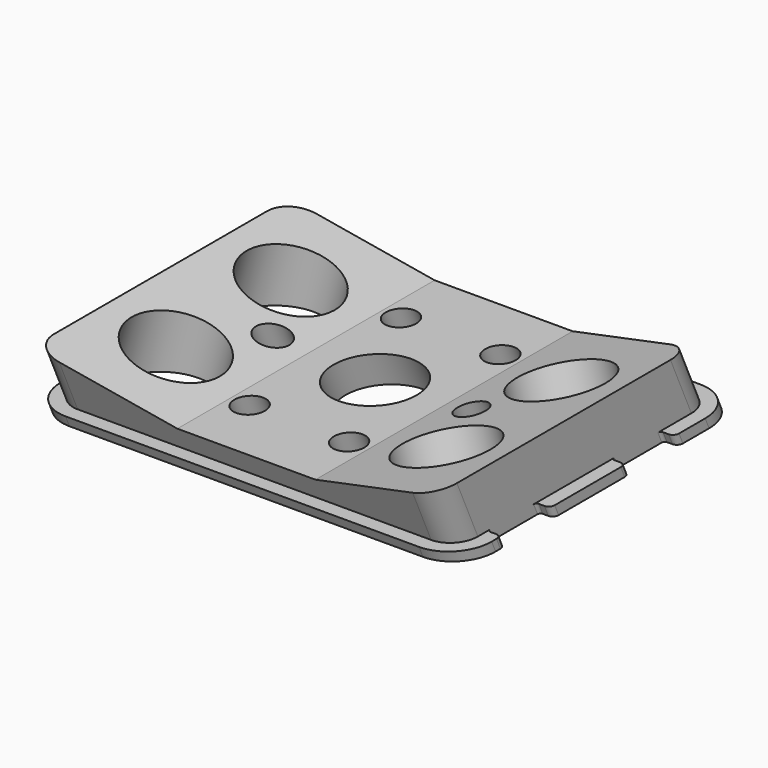
from build123d import *

# Parameters (mm, degrees)
PAD033_DEPTH            = 28.5
POCKET033_DEPTH         = 80
PAD034_DEPTH            = 44
POCKET034_DEPTH         = 80
POCKET035_DEPTH         = 65
POCKET035_DEPTH_BACK    = 100
SKETCH079_R             = 8.25
POCKET036_DEPTH         = 15
SKETCH080_R             = 8.25
POCKET037_DEPTH         = 19
POCKET038_DEPTH         = 14
POCKET039_DEPTH         = 12
SKETCH083_R             = 7.5
SKETCH083_R_2           = 2.75
POCKET040_DEPTH         = 50
SKETCH103_R             = 3.2
POCKET059_DEPTH         = 2
POCKET059_DEPTH_BACK    = 100
POCKET060_DEPTH         = 40
FILLET001_R             = 1
BODY016_PLACEMENT_ANGLE = 204.436


with BuildPart() as part:
    # Sketch074 → Pad033 (new body)
    with BuildSketch(Plane.XY.offset(44.25)):
        with BuildLine():
            Line((25, 4), (89, 4))
            ThreePointArc((89, 4), (93.9497474683, 6.0502525317), (96, 11))
            Line((96, 11), (96, 55))
            ThreePointArc((96, 55), (93.9497474683, 59.9497474683), (89, 62))
            Line((89, 62), (25, 62))
            ThreePointArc((25, 62), (20.0502525317, 59.9497474683), (18, 55))
            Line((18, 55), (18, 11))
            ThreePointArc((18, 11), (20.0502525317, 6.0502525317), (25, 4))
        make_face()
    extrude(amount=-PAD033_DEPTH)

    # Sketch075 (on Face7 of Pad033) → Pocket033 (cut)
    with BuildSketch(Plane(origin=(18, 0, 0), x_dir=(0, -1, 0), z_dir=(-1, 0, 0))):
        Polygon((-62, 15.75), (-4, 42.1136915968), (-4, 15.75), align=None)
        Polygon((-62, 17.8863084032), (-4, 44.25), (-62, 44.25), align=None)
    extrude(amount=-POCKET033_DEPTH, mode=Mode.SUBTRACT)

    # Sketch076 → Pad034 (join)
    with BuildSketch(Plane.XY):
        with BuildLine():
            ThreePointArc((20.5, 11), (21.8180194847, 7.8180194847), (25, 6.5))
            Line((25, 6.5), (89, 6.5))
            ThreePointArc((89, 6.5), (92.1819805153, 7.8180194847), (93.5, 11))
            Line((93.5, 11), (93.5, 55))
            ThreePointArc((93.5, 55), (92.1819805153, 58.1819805153), (89, 59.5))
            Line((25, 59.5), (89, 59.5))
            ThreePointArc((25, 59.5), (21.8180194847, 58.1819805153), (20.5, 55))
            Line((20.5, 55), (20.5, 11))
        make_face()
    extrude(amount=PAD034_DEPTH)

    # Sketch077 (on Face22 of Pad034) → Pocket034 (cut)
    with BuildSketch(Plane.YZ.offset(93.5)):
        Polygon((6.5, 43.1136339829), (59.5, 19.0226744203), (59.5, 44), (6.5, 44), align=None)
    extrude(amount=-POCKET034_DEPTH, mode=Mode.SUBTRACT)

    # Sketch078 (on DatumPlane) → Pocket035 (cut, two sides)
    with BuildSketch(Plane(origin=(96, 11, 38.9318667489), x_dir=(1, 0, 0), z_dir=(0, -0.9103661509, 0.4138036628))) as pocket035_sk:
        Polygon((-75.5, -10.4307806183), (-51.5, -4), (-26.5, -4), (-2.5, -10.4307806183), (-2.5, -38), (-75.5, -38), align=None)
    extrude(amount=-POCKET035_DEPTH, mode=Mode.SUBTRACT)
    extrude(pocket035_sk.sketch, amount=POCKET035_DEPTH_BACK, mode=Mode.SUBTRACT)

    # Sketch079 (on Face23 of Pocket035) → Pocket036 (cut)
    with BuildSketch(Plane(origin=(-6.0175887265, 9.2931806721, 20.4449546454), x_dir=(0.9659258263, 0.1071002689, 0.2356200979), z_dir=(0.2588190451, -0.3997036449, -0.8793461765))):
        with Locations((39.8763421354, -8.3497089553)):
            Circle(SKETCH079_R)
        with Locations((39.8763421354, -34.3497089553)):
            Circle(SKETCH079_R)
    extrude(amount=-POCKET036_DEPTH, mode=Mode.SUBTRACT)

    # Sketch080 (on Face27 of Pocket036) → Pocket037 (cut)
    with BuildSketch(Plane(origin=(13.6541407108, 21.0865850616, 46.3903899454), x_dir=(0.9659258263, -0.1071002689, -0.2356200979), z_dir=(-0.2588190451, -0.3997036449, -0.8793461765))):
        with Locations((70.2392020615, -8.3497089553)):
            Circle(SKETCH080_R)
        with Locations((70.2392020615, -34.3497089553)):
            Circle(SKETCH080_R)
    extrude(amount=-POCKET037_DEPTH, mode=Mode.SUBTRACT)

    # Sketch081 (on Face27 of Pocket037) → Pocket038 (cut)
    with BuildSketch(Plane(origin=(-8.0881410873, 12.4908098313, 27.4797240575), x_dir=(0.9659258263, 0.1071002689, 0.2356200979), z_dir=(0.2588190451, -0.3997036449, -0.8793461765))):
        with BuildLine():
            ThreePointArc((30.25, -25.25), (32.5, -27.5), (34.75, -25.25))
            Line((34.75, -25.25), (34.75, -17.25))
            ThreePointArc((34.75, -17.25), (32.5, -15), (30.25, -17.25))
            Line((30.25, -25.25), (30.25, -17.25))
        make_face()
    extrude(amount=-POCKET038_DEPTH, mode=Mode.SUBTRACT)

    # Sketch082 (on Face33 of Pocket038) → Pocket039 (cut)
    with BuildSketch(Plane(origin=(15.7246930716, 24.2842142208, 53.4251593575), x_dir=(0.9659258263, -0.1071002689, -0.2356200979), z_dir=(-0.2588190451, -0.3997036449, -0.8793461765))):
        with BuildLine():
            ThreePointArc((75.25, -25.25), (77.5, -27.5), (79.75, -25.25))
            Line((79.75, -25.25), (79.75, -17.25))
            ThreePointArc((79.75, -17.25), (77.5, -15), (75.25, -17.25))
            Line((75.25, -25.25), (75.25, -17.25))
        make_face()
    extrude(amount=-POCKET039_DEPTH, mode=Mode.SUBTRACT)

    # Sketch083 → Pocket040 (cut)
    with BuildSketch(Plane.XY):
        with Locations((57, 33)):
            Circle(SKETCH083_R)
        with Locations((48, 48.5884572681)):
            Circle(SKETCH083_R_2)
        with Locations((66, 48.5884572681)):
            Circle(SKETCH083_R_2)
        with Locations((75, 33)):
            Circle(SKETCH083_R_2)
        with Locations((39, 33)):
            Circle(SKETCH083_R_2)
        with Locations((48, 17.4115427319)):
            Circle(SKETCH083_R_2)
        with Locations((66, 17.4115427319)):
            Circle(SKETCH083_R_2)
    extrude(amount=POCKET040_DEPTH, mode=Mode.SUBTRACT)

    # Sketch103 → Pocket059 (cut, two sides)
    with BuildSketch(Plane.XY.offset(32)) as pocket059_sk:
        with Locations((39, 33)):
            Circle(SKETCH103_R)
        with Locations((75, 33)):
            Circle(SKETCH103_R)
    extrude(amount=-POCKET059_DEPTH, mode=Mode.SUBTRACT)
    extrude(pocket059_sk.sketch, amount=POCKET059_DEPTH_BACK, mode=Mode.SUBTRACT)

    # Sketch142 → Pocket060 (cut)
    with BuildSketch(Plane.XY.offset(40)):
        with BuildLine():
            Line((18, 17.4), (20, 17.4))
            ThreePointArc((20, 17.4), (20.3535533906, 17.5464466094), (20.5, 17.9))
            Line((20.5, 17.9), (20.5, 26.9))
            ThreePointArc((20.5, 26.9), (20.3535533906, 27.2535533906), (20, 27.4))
            Line((20, 27.4), (18, 27.4))
            Line((18, 27.4), (18, 17.4))
        make_face()
        with BuildLine():
            Line((18, 43), (20, 43))
            ThreePointArc((20, 43), (20.3535533906, 43.1464466094), (20.5, 43.5))
            Line((20.5, 43.5), (20.5, 52.5))
            ThreePointArc((20.5, 52.5), (20.3535533906, 52.8535533906), (20, 53))
            Line((20, 53), (18, 53))
            Line((18, 53), (18, 43))
        make_face()
        with BuildLine():
            Line((96, 53), (94, 53))
            ThreePointArc((94, 53), (93.6464466094, 52.8535533906), (93.5, 52.5))
            Line((93.5, 52.5), (93.5, 43.5))
            ThreePointArc((93.5, 43.5), (93.6464466094, 43.1464466094), (94, 43))
            Line((94, 43), (96, 43))
            Line((96, 43), (96, 53))
        make_face()
        with BuildLine():
            Line((96, 17.4), (94, 17.4))
            ThreePointArc((93.5, 17.9), (93.6464466094, 17.5464466094), (94, 17.4))
            Line((93.5, 17.9), (93.5, 26.9))
            ThreePointArc((94, 27.4), (93.6464466094, 27.2535533906), (93.5, 26.9))
            Line((94, 27.4), (96, 27.4))
            Line((96, 27.4), (96, 17.4))
        make_face()
    extrude(amount=-POCKET060_DEPTH, mode=Mode.SUBTRACT)

    # Fillet001
    fillet001_edges = [part.edges().sort_by_distance(p)[0] for p in [
        (18, 53, 20.909072),
        (18, 43, 25.454536),
        (18, 27.4, 32.54546),
        (18, 17.4, 37.090924),
        (96, 53, 20.909072),
        (96, 43, 25.454536),
        (96, 27.4, 32.54546),
        (96, 17.4, 37.090924),
    ]]
    fillet(fillet001_edges, radius=FILLET001_R)


with BuildPart() as part_1:
    # Body016 placement: moved
    add(part.part.rotate(Axis((0, 0, 0), (1, 0, 0)), BODY016_PLACEMENT_ANGLE))


solid = part_1.part
